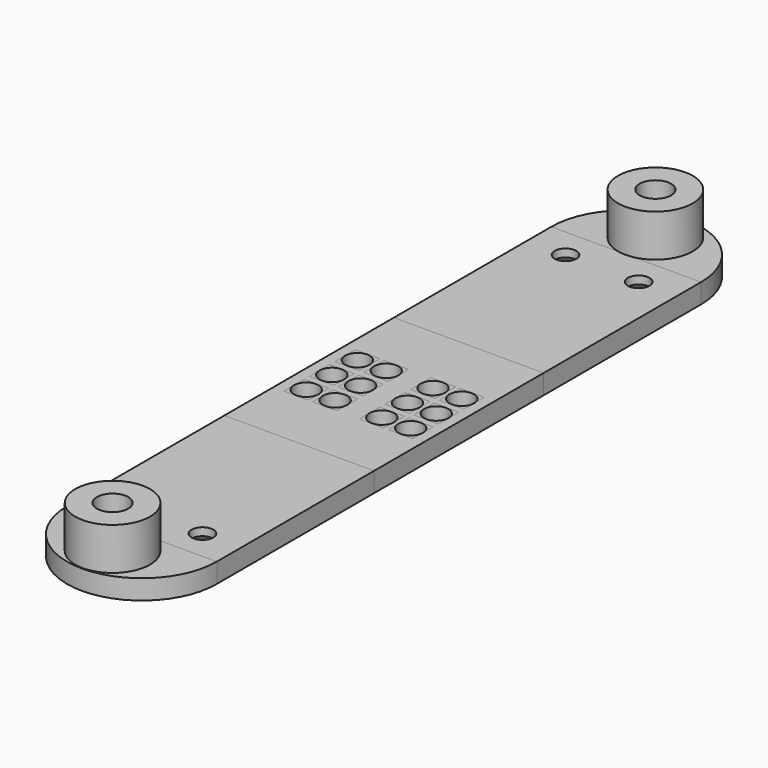
from build123d import *

# Parameters (mm, degrees)
SKETCH004_W     = 15.232
SKETCH004_H     = 21.56
SKETCH004_R     = 1.25
PAD002_DEPTH    = 2
SKETCH001_W     = 15.232
SKETCH001_H     = 20
SKETCH001_R     = 1.1
PAD001_DEPTH    = 2
CHAMFER002_SIZE = 1.2
SKETCH002_R     = 1.6
PAD_DEPTH       = 2
CHAMFER_SIZE    = 1.65
CHAMFER003_SIZE = 1.65
SKETCH005_W     = 15.232
SKETCH005_H     = 21.56
SKETCH005_W_2   = 2.5
SKETCH005_H_2   = 2.6
PAD003_DEPTH    = 2
SKETCH_R        = 3.8
SKETCH_R_2      = 1.6
PAD004_DEPTH    = 4.3


with BuildPart() as pad002:
    # Sketch004 → Pad002 (new body)
    with BuildSketch(Plane.XY):
        with Locations((7.616, 10.78)):
            Rectangle(SKETCH004_W, SKETCH004_H)
        with Locations((2.3099, 7.53)):
            Circle(SKETCH004_R, mode=Mode.SUBTRACT)
        with Locations((2.3099, 14.03)):
            Circle(SKETCH004_R, mode=Mode.SUBTRACT)
        with Locations((2.3099, 10.78)):
            Circle(SKETCH004_R, mode=Mode.SUBTRACT)
        with Locations((5.2399, 14.03)):
            Circle(SKETCH004_R, mode=Mode.SUBTRACT)
        with Locations((5.2399, 10.78)):
            Circle(SKETCH004_R, mode=Mode.SUBTRACT)
        with Locations((5.2399, 7.53)):
            Circle(SKETCH004_R, mode=Mode.SUBTRACT)
        with Locations((10, 14.03)):
            Circle(SKETCH004_R, mode=Mode.SUBTRACT)
        with Locations((10, 10.78)):
            Circle(SKETCH004_R, mode=Mode.SUBTRACT)
        with Locations((10, 7.53)):
            Circle(SKETCH004_R, mode=Mode.SUBTRACT)
        with Locations((12.93, 7.53)):
            Circle(SKETCH004_R, mode=Mode.SUBTRACT)
        with Locations((12.93, 10.78)):
            Circle(SKETCH004_R, mode=Mode.SUBTRACT)
        with Locations((12.93, 14.03)):
            Circle(SKETCH004_R, mode=Mode.SUBTRACT)
    extrude(amount=PAD002_DEPTH)


with BuildPart() as chamfer002:
    # Sketch001 → Pad001 (new body)
    with BuildSketch(Plane.XY):
        with Locations((7.616, -10)):
            Rectangle(SKETCH001_W, SKETCH001_H)
        with Locations((3.8995, -16.9419)):
            Circle(SKETCH001_R, mode=Mode.SUBTRACT)
        with Locations((11.3325, -16.9419)):
            Circle(SKETCH001_R, mode=Mode.SUBTRACT)
        with Locations((7.616, 31.56)):
            Rectangle(SKETCH001_W, SKETCH001_H)
        with Locations((3.8995, 38.5019)):
            Circle(SKETCH001_R, mode=Mode.SUBTRACT)
        with Locations((11.3325, 38.5019)):
            Circle(SKETCH001_R, mode=Mode.SUBTRACT)
    extrude(amount=PAD001_DEPTH)

    # Chamfer002
    chamfer002_edges = [chamfer002.edges().sort_by_distance(p)[0] for p in [
        (10.2325, -16.9419, 0),
        (2.7995, -16.9419, 0),
        (10.2325, 38.5019, 0),
        (2.7995, 38.5019, 0),
    ]]
    chamfer(chamfer002_edges, length=CHAMFER002_SIZE)


with BuildPart() as chamfer003:
    # Sketch002 → Pad (new body)
    with BuildSketch(Plane.XY):
        with BuildLine():
            ThreePointArc((15.232, 41.56), (7.616, 49.176), (0, 41.56))
            Line((0, 41.56), (15.232, 41.56))
        make_face()
        with Locations((7.616, 45.28)):
            Circle(SKETCH002_R, mode=Mode.SUBTRACT)
        with BuildLine():
            ThreePointArc((0, -20), (7.616, -27.616), (15.232, -20))
            Line((0, -20), (15.232, -20))
        make_face()
        with Locations((7.616, -23.72)):
            Circle(SKETCH002_R, mode=Mode.SUBTRACT)
    extrude(amount=PAD_DEPTH)

    # Chamfer
    chamfer_edges = [chamfer003.edges().sort_by_distance(p)[0] for p in [
        (6.016, 45.28, 0),
    ]]
    chamfer(chamfer_edges, length=CHAMFER_SIZE)

    # Chamfer003
    chamfer003_edges = [chamfer003.edges().sort_by_distance(p)[0] for p in [
        (6.016, -23.72, 0),
    ]]
    chamfer(chamfer003_edges, length=CHAMFER003_SIZE)


with BuildPart() as pad003:
    # Sketch005 → Pad003 (new body)
    with BuildSketch(Plane.XY):
        with Locations((7.616, 10.78)):
            Rectangle(SKETCH005_W, SKETCH005_H)
        with Locations((2.3099, 10.78)):
            Rectangle(SKETCH005_W_2, SKETCH005_H_2, mode=Mode.SUBTRACT)
        with Locations((2.3099, 14.03)):
            Rectangle(SKETCH005_W_2, SKETCH005_H_2, mode=Mode.SUBTRACT)
        with Locations((2.3099, 7.53)):
            Rectangle(SKETCH005_W_2, SKETCH005_H_2, mode=Mode.SUBTRACT)
        with Locations((5.2399, 14.03)):
            Rectangle(SKETCH005_W_2, SKETCH005_H_2, mode=Mode.SUBTRACT)
        with Locations((5.2399, 10.78)):
            Rectangle(SKETCH005_W_2, SKETCH005_H_2, mode=Mode.SUBTRACT)
        with Locations((5.2399, 7.53)):
            Rectangle(SKETCH005_W_2, SKETCH005_H_2, mode=Mode.SUBTRACT)
        with Locations((10, 14.03)):
            Rectangle(SKETCH005_W_2, SKETCH005_H_2, mode=Mode.SUBTRACT)
        with Locations((12.93, 14.03)):
            Rectangle(SKETCH005_W_2, SKETCH005_H_2, mode=Mode.SUBTRACT)
        with Locations((10, 10.78)):
            Rectangle(SKETCH005_W_2, SKETCH005_H_2, mode=Mode.SUBTRACT)
        with Locations((12.93, 10.78)):
            Rectangle(SKETCH005_W_2, SKETCH005_H_2, mode=Mode.SUBTRACT)
        with Locations((10, 7.53)):
            Rectangle(SKETCH005_W_2, SKETCH005_H_2, mode=Mode.SUBTRACT)
        with Locations((12.93, 7.53)):
            Rectangle(SKETCH005_W_2, SKETCH005_H_2, mode=Mode.SUBTRACT)
    extrude(amount=PAD003_DEPTH)


with BuildPart() as pad004:
    # Sketch → Pad004 (new body)
    with BuildSketch(Plane.XY.offset(2)):
        with Locations((7.616, 45.28)):
            Circle(SKETCH_R)
        with Locations((7.616, 45.28)):
            Circle(SKETCH_R_2, mode=Mode.SUBTRACT)
        with Locations((7.616, -23.72)):
            Circle(SKETCH_R)
        with Locations((7.616, -23.72)):
            Circle(SKETCH_R_2, mode=Mode.SUBTRACT)
    extrude(amount=PAD004_DEPTH)


solid = Compound([pad002.part, chamfer002.part, chamfer003.part, pad003.part, pad004.part])
